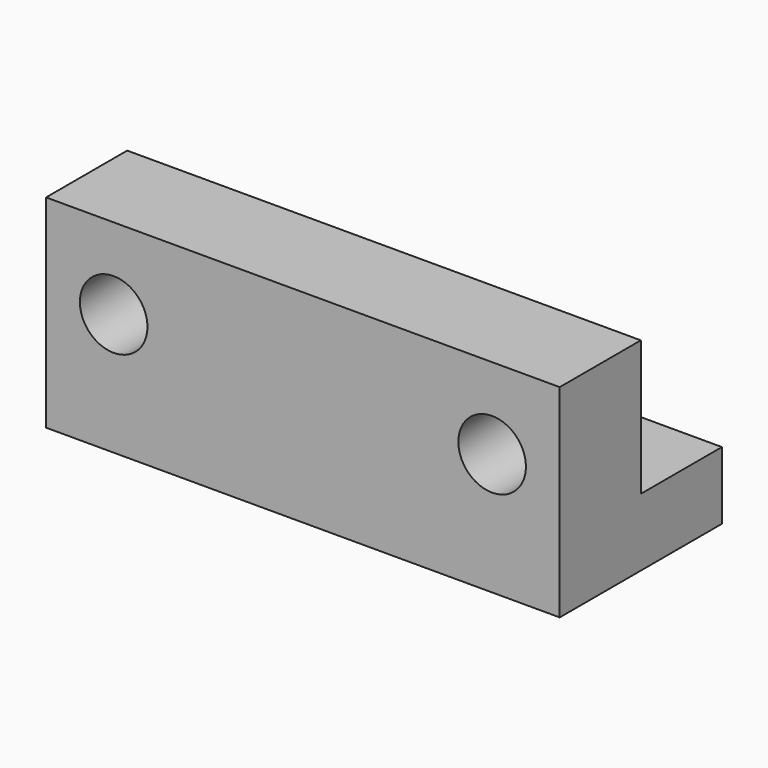
from build123d import *

# Parameters (mm, degrees)
F0_W     = 38
F0_H     = 5
F1_DEPTH = 15
F2_R     = 1.5
F3_DEPTH = 8
F4_W     = 38
F4_H     = 7.5
F5_DEPTH = 10
F6_R     = 2.5
F7_DEPTH = 10


with BuildPart() as f1:
    # F0 (on Front) → F1 (new body)
    with BuildSketch(Plane.XZ):
        Rectangle(F0_W, F0_H)
    extrude(amount=F1_DEPTH)

    # F2 (on face) → F3 (cut)
    with BuildSketch(Plane.XZ):
        with Locations((-10.5, 0)):
            Circle(F2_R)
        with Locations((10.5, 0)):
            Circle(F2_R)
        with Locations((-10.5, 0)):
            Circle(F2_R)
        with Locations((10.5, 0)):
            Circle(F2_R)
    extrude(amount=F3_DEPTH, mode=Mode.SUBTRACT)

    # F4 (on face) → F5 (join)
    with BuildSketch(Plane.XY.offset(2.5)):
        with Locations((0, -11.25)):
            Rectangle(F4_W, F4_H)
    extrude(amount=F5_DEPTH)

    # F6 (on face) → F7 (cut)
    with BuildSketch(Plane.XZ.offset(15)):
        with Locations((-14, 6.5)):
            Circle(F6_R)
        with Locations((14, 6.5)):
            Circle(F6_R)
    extrude(amount=-F7_DEPTH, mode=Mode.SUBTRACT)


solid = f1.part
